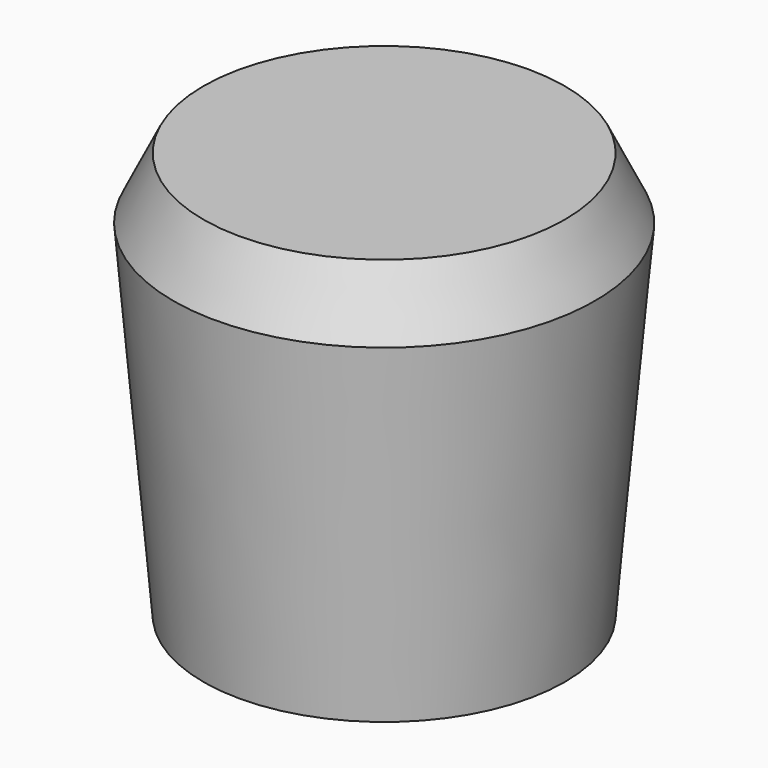
from build123d import *

# Parameters (mm, degrees)
F2_R     = 10.7188
F3_DEPTH = 30.1625


with BuildPart() as f1:
    # F0 (on Front) → F1 (revolve)
    with BuildSketch(Plane.XZ):
        Polygon((-19.05, 0), (0, 0), (0, 42.8752), (-19.043444, 42.8752), (-22.225, 36.374195), align=None)
    revolve(axis=Axis((0, 0, 21.4376), (0, 0, 1)))

    # F2 (on face) → F3 (cut)
    with BuildSketch(Plane(origin=(0, 0, 0), x_dir=(1, 0, 0), z_dir=(0, 0, -1))):
        Circle(F2_R)
    extrude(amount=-F3_DEPTH, mode=Mode.SUBTRACT)


solid = f1.part
